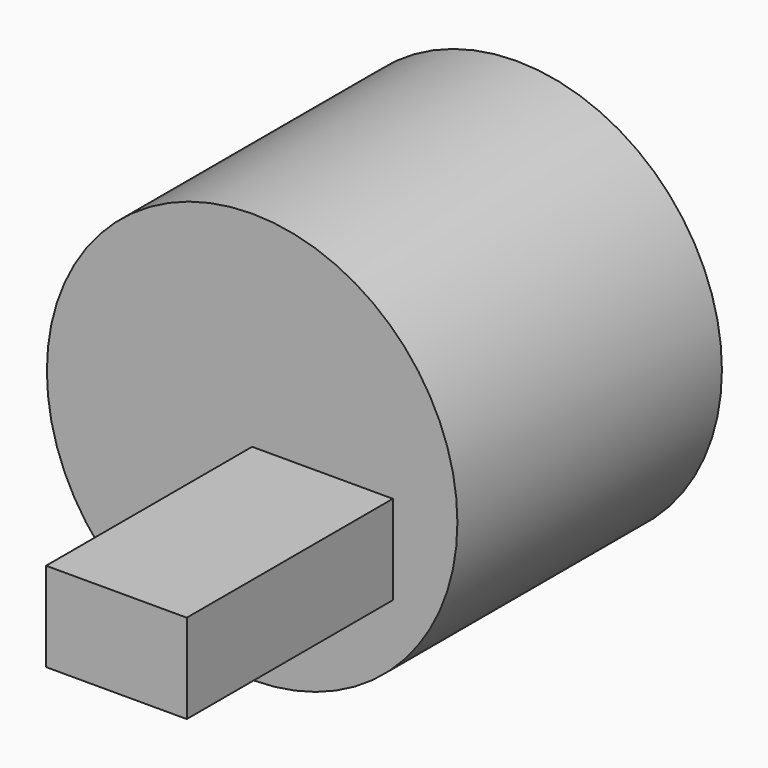
from build123d import *

# Parameters (mm, degrees)
F0_R     = 53.943872
F1_DEPTH = 86.892692
F2_W     = 36.975682
F2_H     = 23.461729
F3_DEPTH = 67.688616


with BuildPart() as f1:
    # F0 (on Front) → F1 (new body)
    with BuildSketch(Plane.XZ):
        Circle(F0_R)
    extrude(amount=F1_DEPTH)

    # F2 (on face) → F3 (join)
    with BuildSketch(Plane.XZ.offset(86.892692)):
        with Locations((18.487841, -11.730864)):
            Rectangle(F2_W, F2_H)
    extrude(amount=F3_DEPTH)


solid = f1.part
